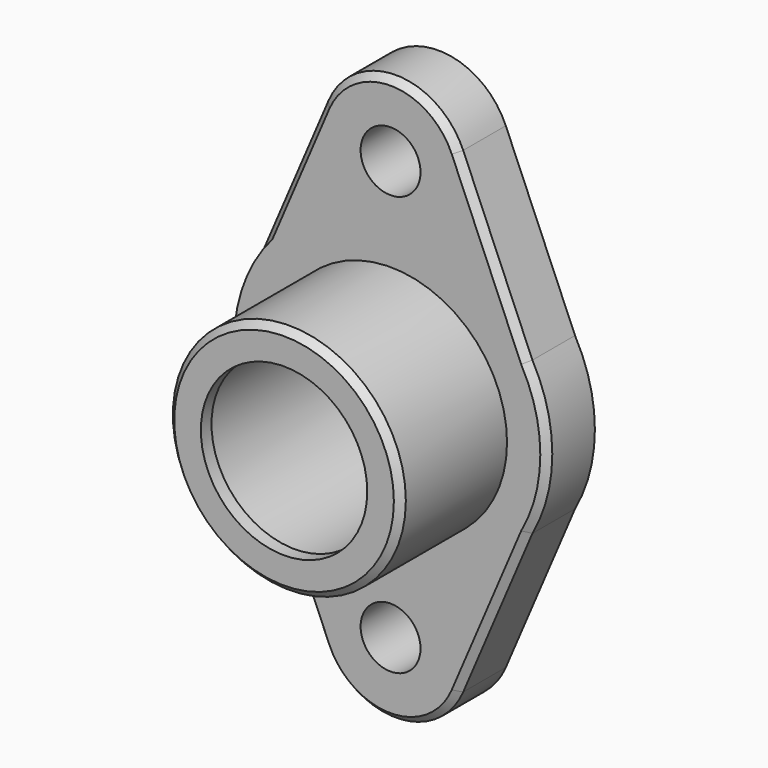
from build123d import *

# Parameters (mm, degrees)
F0_R     = 4.5
F0_R_2   = 17.5
F1_DEPTH = 9
F0_R_3   = 13.5
F0_R_4   = 12.5
F2_DEPTH = 29
F3_DEPTH = 27
F4_SIZE  = 1


with BuildPart() as f1:
    # F0 (on Front) → F1 (new body)
    with BuildSketch(Plane.XZ):
        with BuildLine():
            Line((10.116541, -35.819212), (20.517576, -11.457707))
            ThreePointArc((20.517576, -11.457707), (23.5, 0), (20.517576, 11.457707))
            Line((20.517576, 11.457707), (10.116541, 35.819212))
            ThreePointArc((10.116541, 35.819212), (0, 42.5), (-10.116541, 35.819212))
            Line((-10.116541, 35.819212), (-20.517576, 11.457707))
            ThreePointArc((-20.517576, 11.457707), (-23.5, 0), (-20.517576, -11.457707))
            Line((-20.517576, -11.457707), (-10.116541, -35.819212))
            ThreePointArc((-10.116541, -35.819212), (0, -42.5), (10.116541, -35.819212))
        make_face()
        with Locations((0, -31.5)):
            Circle(F0_R, mode=Mode.SUBTRACT)
        Circle(F0_R_2, mode=Mode.SUBTRACT)
        with Locations((0, 31.5)):
            Circle(F0_R, mode=Mode.SUBTRACT)
    extrude(amount=F1_DEPTH)

    # F0 (on Front) → F2 (join)
    with BuildSketch(Plane.XZ):
        Circle(F0_R_2)
        Circle(F0_R_3, mode=Mode.SUBTRACT)
        Circle(F0_R_3)
        Circle(F0_R_4, mode=Mode.SUBTRACT)
    extrude(amount=F2_DEPTH)

    # F0 (on Front) → F3 (cut)
    with BuildSketch(Plane.XZ):
        Circle(F0_R_3)
        Circle(F0_R_4, mode=Mode.SUBTRACT)
    extrude(amount=F3_DEPTH, mode=Mode.SUBTRACT)

    # F4
    f4_edges = [f1.edges().sort_by_distance(p)[0] for p in [
        (-17.5, -29, 0),
        (23.5, -9, 0),
        (15.317059, -9, -23.63846),
        (15.317059, -9, 23.63846),
    ]]
    chamfer(f4_edges, length=F4_SIZE)


solid = f1.part
